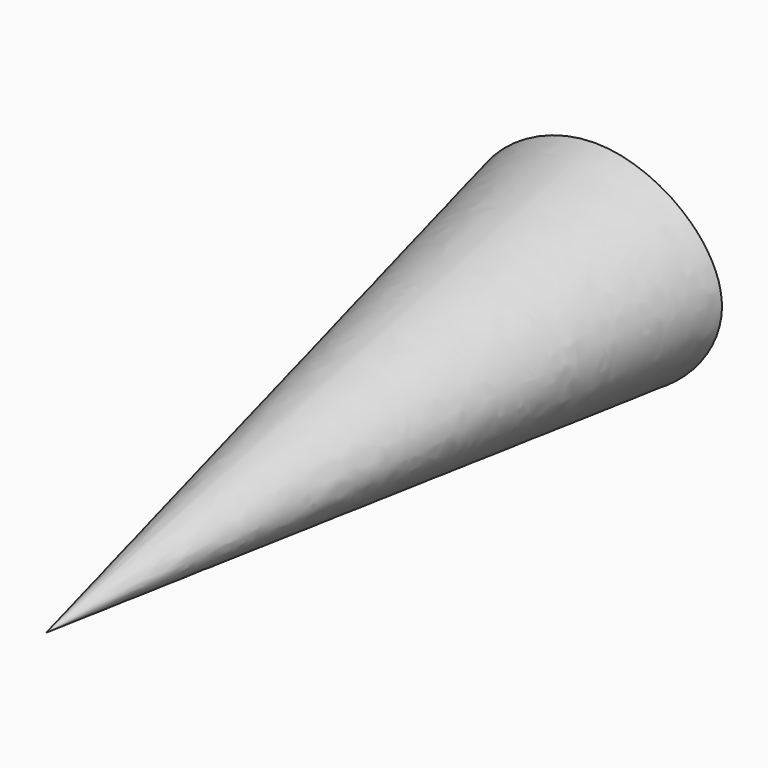
from build123d import *


with BuildPart() as f4:
    # F2 (on offset) → F4 section 0
    with BuildSketch(Plane.XZ.offset(1750), mode=Mode.PRIVATE) as f4_s0:
        with BuildLine():
            add(Edge.make_bspline(
                [(0, 1000), (-620.9409684422, 1000), (-1875.1613099352, 29.3096883606), (0, -1670.0892481116), (1875.1613099352, 29.3096883606), (620.9409684422, 1000), (0, 1000)],
                knots=[0, 0, 0, 0, 0.2475406226, 0.5, 0.7524593774, 1, 1, 1, 1], degree=3))
        make_face()
    loft([Vertex(0, -8500, -500), f4_s0.sketch])


solid = f4.part
